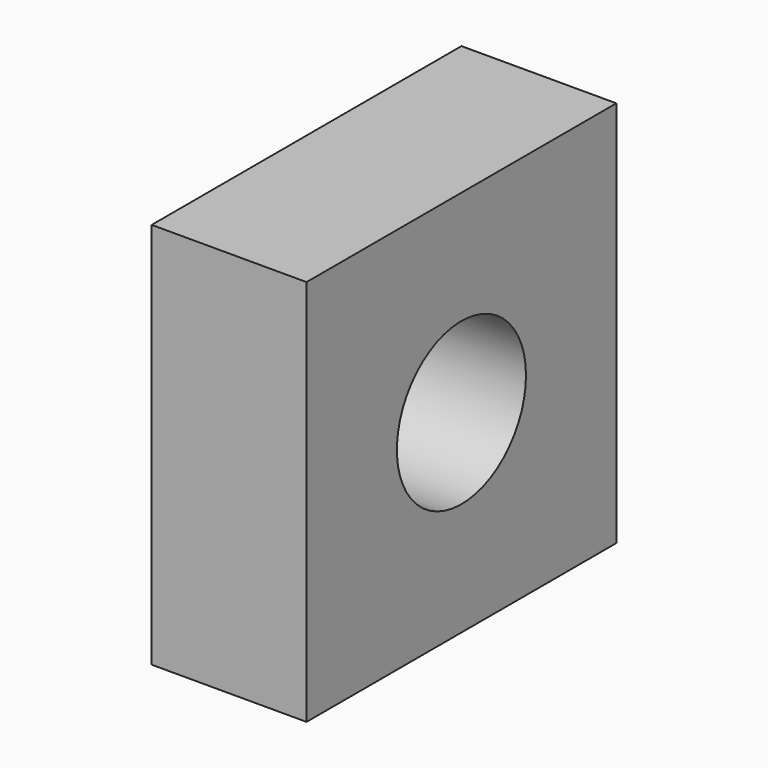
from build123d import *

# Parameters (mm, degrees)
F0_W     = 24
F0_H     = 60
F1_DEPTH = 60
F2_R     = 12.5
F3_DEPTH = 25


with BuildPart() as f1:
    # F0 (on Front) → F1 (new body)
    with BuildSketch(Plane.XZ):
        with Locations((-268, 250)):
            Rectangle(F0_W, F0_H)
    extrude(amount=-F1_DEPTH)

    # F2 (on face) → F3 (cut)
    with BuildSketch(Plane.YZ.offset(-256)):
        with Locations((30, 250)):
            Circle(F2_R)
    extrude(amount=-F3_DEPTH, mode=Mode.SUBTRACT)


solid = f1.part
